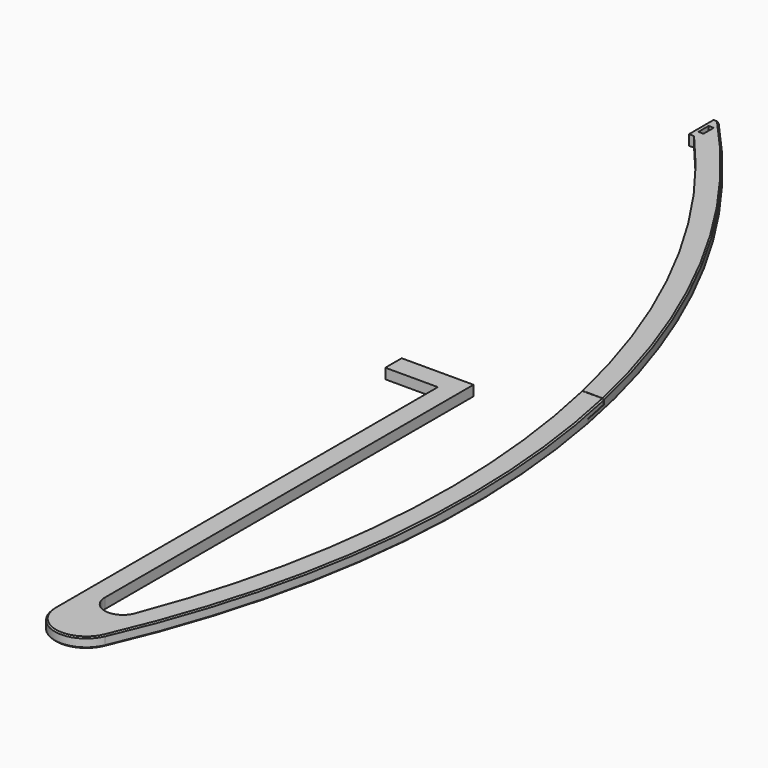
from build123d import *

# Parameters (mm, degrees)
F0_W     = 2
F0_H     = 5
F1_DEPTH = 4
F2_SIZE  = 0.5
F4_DEPTH = 150


with BuildPart() as f1:
    # F0 (on Top) → F1 (new body)
    with BuildSketch(Plane.XY):
        with BuildLine():
            Line((27, -52), (27, -60))
            Line((27, -60), (47, -60))
            Line((47, -60), (47, -246.082022))
            ThreePointArc((47, -246.082022), (56.733311, -258.067263), (70.460551, -251))
            ThreePointArc((70.460551, -251), (94.933072, -50.671846), (5, 130))
            Line((5, 130), (3, 130))
            Line((3, 130), (3, 118))
            Line((3, 118), (5, 118))
            ThreePointArc((5, 118), (86.446116, -49.178947), (68.608857, -234.284599))
            ThreePointArc((68.608857, -234.284599), (60.745411, -238.65548), (55, -231.732429))
            Line((55, -231.732429), (55, -52))
            Line((55, -52), (27, -52))
        make_face()
        with Locations((5.290123, 123.486417)):
            Rectangle(F0_W, F0_H, mode=Mode.SUBTRACT)
    extrude(amount=F1_DEPTH)

    # F2
    f2_edges = [f1.edges().sort_by_distance(p)[0] for p in [
        (94.933072, -50.671846, 0),
        (94.933072, -50.671846, 4),
    ]]
    chamfer(f2_edges, length=F2_SIZE)

    # F3 (on Right) → F4 (cut)
    with BuildSketch(Plane.YZ):
        Polygon((-44.850904, 2.075), (-44.850904, 0), (-44.700904, 0), (-44.700904, 1.925), (-34.365721, 1.925), (-34.365721, 4), (-34.515721, 4), (-34.515721, 2.075), align=None)
    extrude(amount=F4_DEPTH, mode=Mode.SUBTRACT)


solid = f1.part
